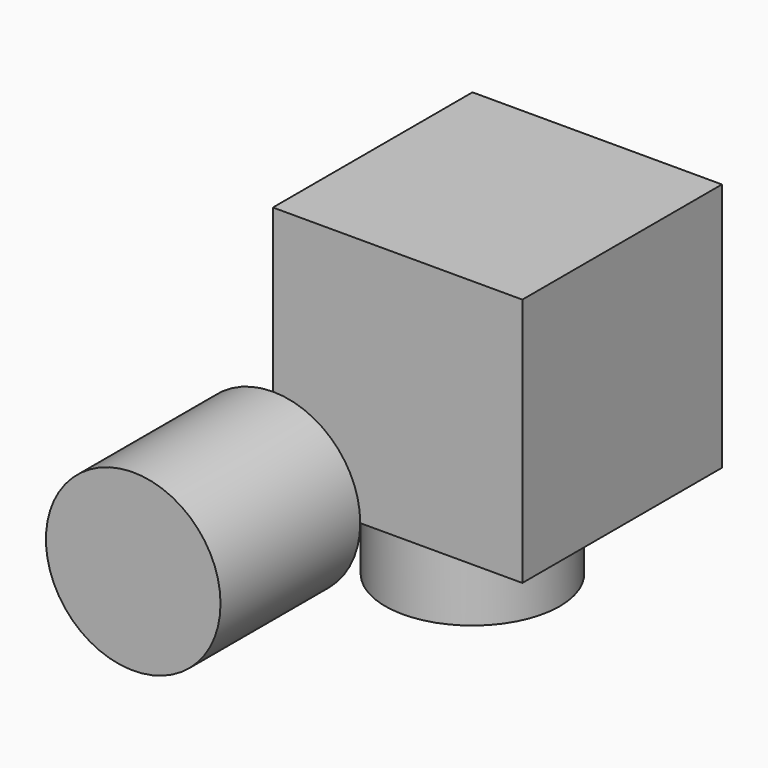
from build123d import *

# Parameters (mm, degrees)
F0_W     = 100
F0_H     = 100
F1_DEPTH = 100
F2_R     = 35
F3_DEPTH = 70
F4_R     = 35
F5_DEPTH = 70


with BuildPart() as f1:
    # F0 (on Front) → F1 (new body)
    with BuildSketch(Plane.XZ):
        with Locations((50, 50)):
            Rectangle(F0_W, F0_H)
    extrude(amount=F1_DEPTH)

    # F2 (on face) → F3 (join)
    with BuildSketch(Plane(origin=(0, 0, 0), x_dir=(1, 0, 0), z_dir=(0, 0, -1))):
        Circle(F2_R)
    extrude(amount=F3_DEPTH)

    # F4 (on face) → F5 (join)
    with BuildSketch(Plane.XZ.offset(100)):
        Circle(F4_R)
    extrude(amount=F5_DEPTH)


solid = f1.part
